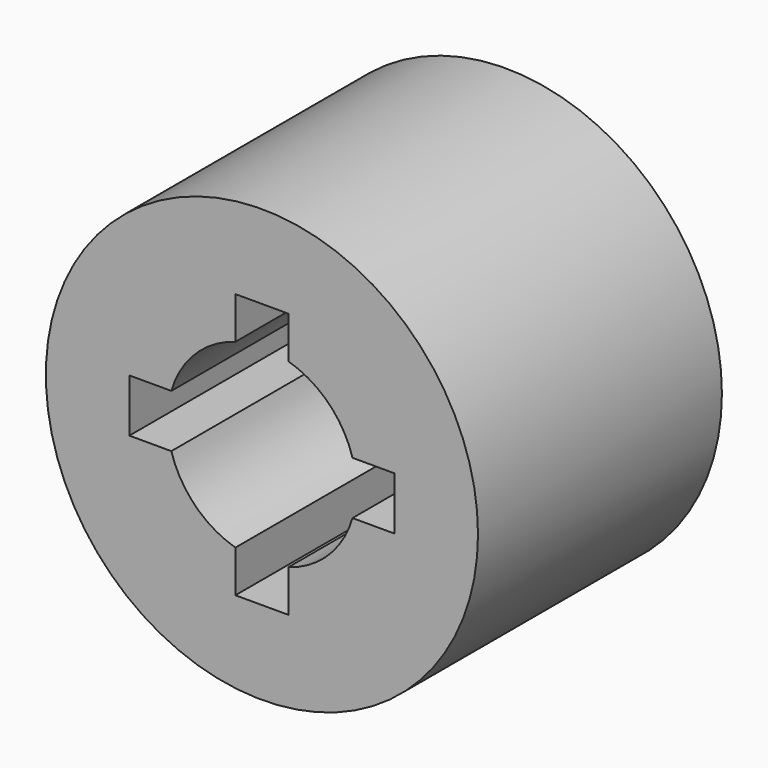
from build123d import *

# Parameters (mm, degrees)
F0_R     = 4.075
F1_DEPTH = 5.75


with BuildPart() as f1:
    # F0 (on Front) → F1 (new body)
    with BuildSketch(Plane.XZ):
        Circle(F0_R)
        with BuildLine():
            Line((-0.5, 2.5), (0.5, 2.5))
            Line((0.5, 2.5), (0.5, 1.708333))
            ThreePointArc((0.5, 1.708333), (1.25865, 1.25865), (1.708333, 0.5))
            Line((1.708333, 0.5), (2.5, 0.5))
            Line((2.5, 0.5), (2.5, -0.5))
            Line((2.5, -0.5), (1.708333, -0.5))
            ThreePointArc((1.708333, -0.5), (1.25865, -1.25865), (0.5, -1.708333))
            Line((0.5, -1.708333), (0.5, -2.5))
            Line((0.5, -2.5), (-0.5, -2.5))
            Line((-0.5, -2.5), (-0.5, -1.708333))
            ThreePointArc((-0.5, -1.708333), (-1.25865, -1.25865), (-1.708333, -0.5))
            Line((-1.708333, -0.5), (-2.5, -0.5))
            Line((-2.5, -0.5), (-2.5, 0.5))
            Line((-2.5, 0.5), (-1.708333, 0.5))
            ThreePointArc((-1.708333, 0.5), (-1.25865, 1.25865), (-0.5, 1.708333))
            Line((-0.5, 1.708333), (-0.5, 2.5))
        make_face(mode=Mode.SUBTRACT)
    extrude(amount=F1_DEPTH)


solid = f1.part
